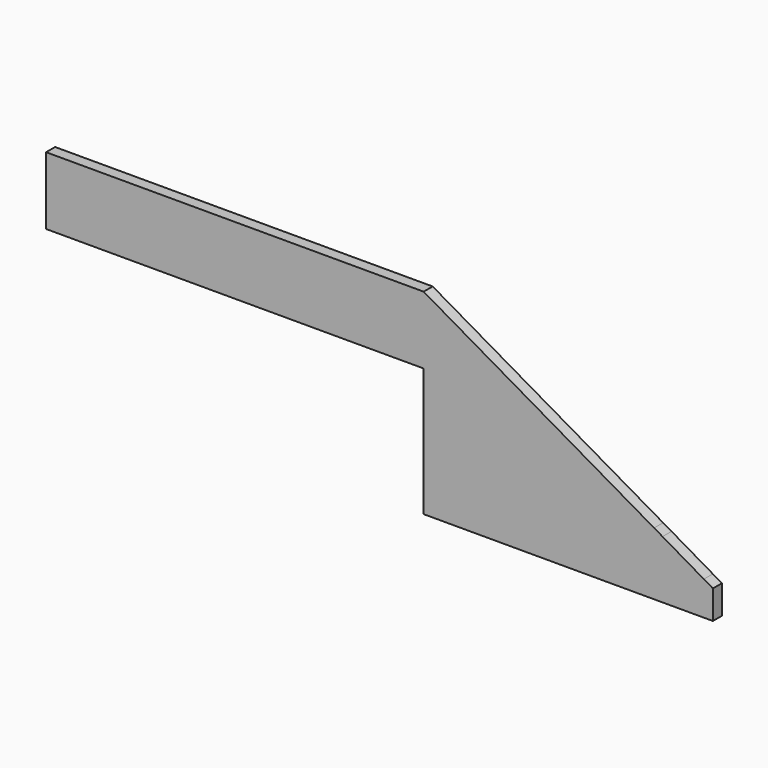
from build123d import *

# Parameters (mm, degrees)
F0_W     = 304.8
F0_H     = 25.4
F1_DEPTH = 9.525


with BuildPart() as f1:
    # F0 (on Front) → F1 (new body)
    with BuildSketch(Plane.XZ):
        with Locations((474.0515406549, 97.119426218)):
            Rectangle(F0_W, F0_H)
        Polygon((315.3015375137, 52.669426218), (321.6515406549, 52.669426218), (321.6515406549, 84.419426218), (321.6515406549, 109.819426218), (315.3015375137, 109.819426218), align=None)
        Polygon((365.3527498245, 52.669426218), (626.4515406549, 52.669426218), (626.4515406549, 84.419426218), (321.6515406549, 84.419426218), (321.6515406549, 52.669426218), align=None)
        Polygon((626.4515406549, 84.419426218), (626.4515406549, 52.669426218), (634.3763406549, 66.3955824579), (634.3763406549, 109.819426218), (626.4515406549, 109.819426218), align=None)
        Polygon((634.3763406549, 109.819426218), (634.3763406549, 66.3955824579), (642.3265406549, 80.1657327882), (653.179416568, 98.963465278), align=None)
        Polygon((653.179416568, 98.963465278), (642.3265406549, 80.1657327882), (689.9515406549, 52.669426218), (733.3630443075, 52.669426218), align=None)
        Polygon((642.3265406549, 80.1657327882), (634.3763406549, 66.3955824579), (634.3763406549, 52.669426218), (689.9515406549, 52.669426218), align=None)
        Polygon((634.3763406549, 66.3955824579), (626.4515406549, 52.669426218), (634.3763406549, 52.669426218), align=None)
        Polygon((802.4279027039, -48.930573782), (634.3763406549, 48.0940408048), (634.3763406549, -55.7142719626), (807.9667468622, -55.7142719626), (836.2473392138, -6.7308491415), (829.155778617, -2.636534722), (818.3029027039, -21.4342672118), align=None)
        Polygon((634.3763406549, 52.669426218), (634.3763406549, 48.0940408048), (802.4279027039, -48.930573782), (818.3029027039, -21.4342672118), (689.9515406549, 52.669426218), align=None)
        Polygon((733.3630443075, 52.669426218), (689.9515406549, 52.669426218), (818.3029027039, -21.4342672118), (829.155778617, -2.636534722), align=None)
        Polygon((836.2473392138, -6.7308491415), (807.9667468622, -55.7142719626), (824.2119550705, -55.7142719626), (854.6004848789, -55.7142719626), (871.1648442681, -27.0239599059), (848.3022022869, -13.73680994), align=None)
        Polygon((871.1648442681, -27.0239599059), (854.6004848789, -55.7142719626), (878.8170780003, -55.7142719626), (878.8170780003, -31.4712314529), align=None)
    extrude(amount=F1_DEPTH)


solid = f1.part
